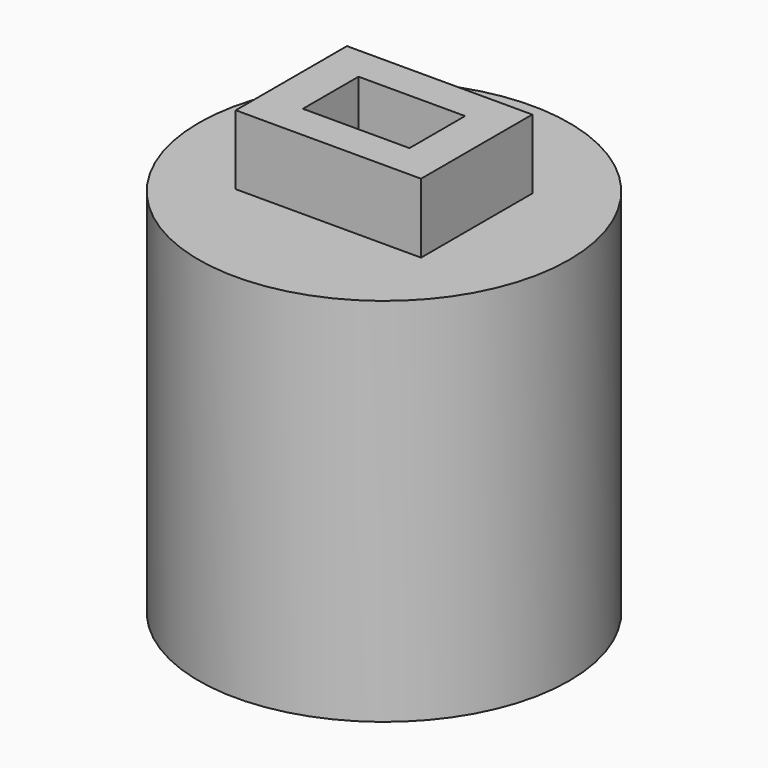
from build123d import *

# Parameters (mm, degrees)
F0_R     = 40
F1_DEPTH = 80
F2_W     = 40
F2_H     = 30
F3_DEPTH = 15
F4_W     = 23
F4_H     = 15
F5_DEPTH = 90


with BuildPart() as f1:
    # F0 (on Top) → F1 (new body)
    with BuildSketch(Plane.XY):
        Circle(F0_R)
    extrude(amount=F1_DEPTH)

    # F2 (on face) → F3 (join)
    with BuildSketch(Plane.XY.offset(80)):
        Rectangle(F2_W, F2_H)
    extrude(amount=F3_DEPTH)

    # F4 (on face) → F5 (cut)
    with BuildSketch(Plane.XY.offset(95)):
        Rectangle(F4_W, F4_H)
    extrude(amount=-F5_DEPTH, mode=Mode.SUBTRACT)


solid = f1.part
